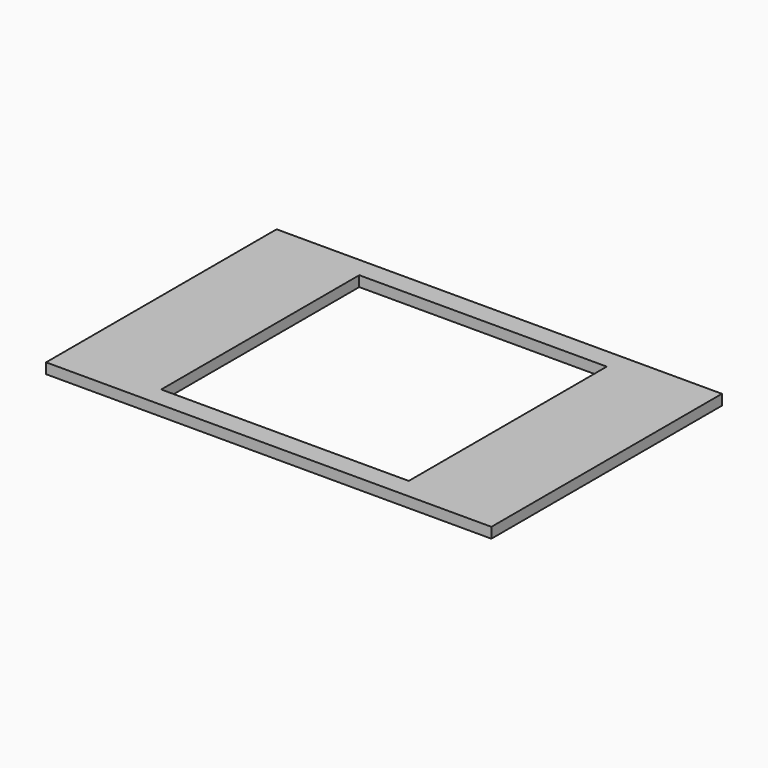
from build123d import *

# Parameters (mm, degrees)
F0_W     = 215.9
F0_H     = 139.7
F1_DEPTH = 5.08


with BuildPart() as f1:
    # F0 (on Top) → F1 (new body)
    with BuildSketch(Plane.XY):
        with Locations((-51.475366, 25.492683)):
            Rectangle(F0_W, F0_H)
        Polygon((-111.475366, -34.507317), (-111.475366, 25.492683), (-111.475366, 85.492683), (-51.475366, 85.492683), (8.524634, 85.492683), (8.524634, 25.492683), (8.524634, -34.507317), (-51.475366, -34.507317), align=None, mode=Mode.SUBTRACT)
    extrude(amount=F1_DEPTH)


solid = f1.part
